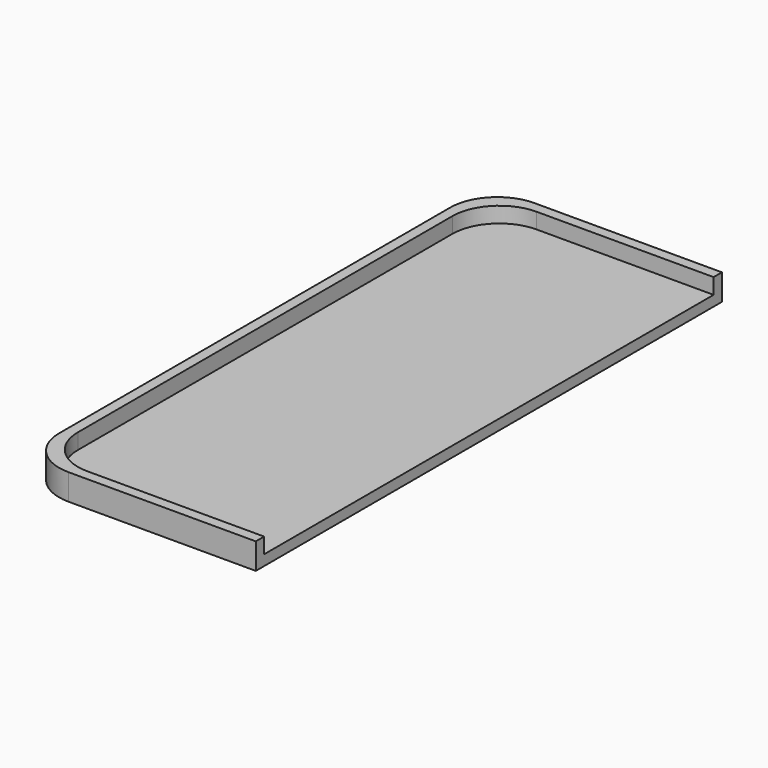
from build123d import *

# Parameters (mm, degrees)
F1_DEPTH = 5
F3_DEPTH = 3


with BuildPart() as f1:
    # F0 (on Top) → F1 (new body)
    with BuildSketch(Plane.XY):
        with BuildLine():
            ThreePointArc((-95, -47), (-92.363961, -53.363961), (-86, -56))
            Line((-86, -56), (-50, -56))
            Line((-50, -56), (-50, 56))
            Line((-50, 56), (-86, 56))
            ThreePointArc((-86, 56), (-92.363961, 53.363961), (-95, 47))
            Line((-95, 47), (-95, -47))
        make_face()
    extrude(amount=F1_DEPTH)

    # F2 (on face) → F3 (cut)
    with BuildSketch(Plane.XY.offset(5)):
        with BuildLine():
            Line((-50, -54), (-50, 54))
            Line((-50, 54), (-84, 54))
            ThreePointArc((-84, 54), (-90.363961, 51.363961), (-93, 45))
            Line((-93, 45), (-93, -45))
            ThreePointArc((-93, -45), (-90.363961, -51.363961), (-84, -54))
            Line((-84, -54), (-50, -54))
        make_face()
    extrude(amount=-F3_DEPTH, mode=Mode.SUBTRACT)


solid = f1.part
